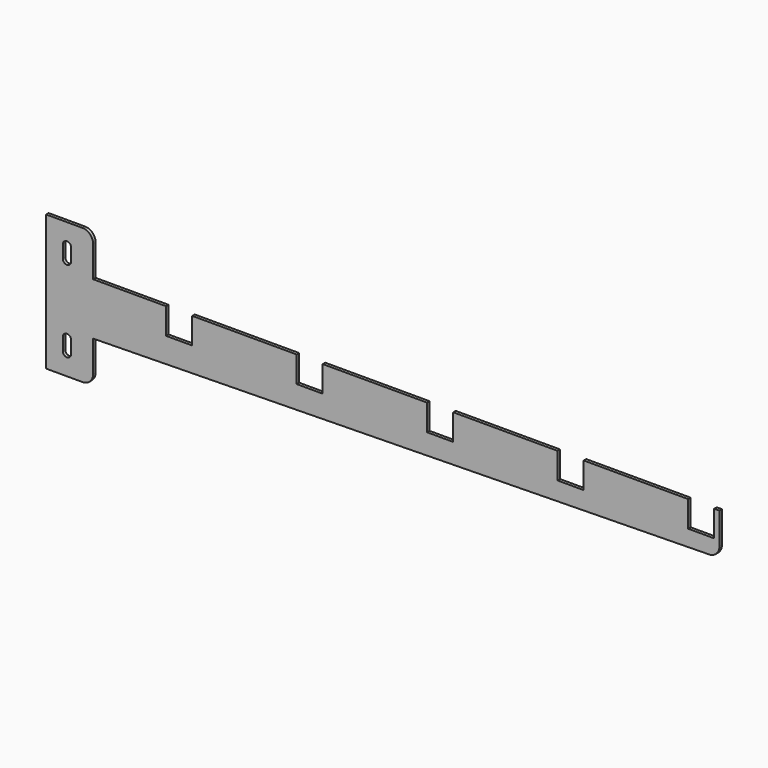
from build123d import *

# Parameters (mm, degrees)
F1_DEPTH = 3


with BuildPart() as f1:
    # F0 (on Front) → F1 (new body)
    with BuildSketch(Plane.XZ):
        with BuildLine():
            Line((-171.156163, -50), (-171.156163, 0))
            Line((-171.156163, 0), (-171.156163, 30))
            ThreePointArc((-171.156163, 30), (-174.085096, 37.071068), (-181.156163, 40))
            Line((-181.156163, 40), (-216.156163, 40))
            Line((-216.156163, 40), (-216.156163, -90))
            Line((-216.156163, -90), (-181.156163, -90))
            ThreePointArc((-181.156163, -90), (-174.085096, -87.071068), (-171.156163, -80))
            Line((-171.156163, -80), (-171.156163, -50))
        make_face()
        with BuildLine():
            Line((-192.156163, -58), (-192.156163, -70))
            ThreePointArc((-192.156163, -70), (-196.156163, -74), (-200.156163, -70))
            Line((-200.156163, -70), (-200.156163, -58))
            ThreePointArc((-200.156163, -58), (-196.156163, -54), (-192.156163, -58))
        make_face(mode=Mode.SUBTRACT)
        with BuildLine():
            Line((-200.156163, 8), (-200.156163, 20))
            ThreePointArc((-200.156163, 20), (-196.156163, 24), (-192.156163, 20))
            Line((-192.156163, 20), (-192.156163, 8))
            ThreePointArc((-192.156163, 8), (-196.156163, 4), (-200.156163, 8))
        make_face(mode=Mode.SUBTRACT)
        with BuildLine():
            Line((-101.156163, 0), (-171.156163, 0))
            Line((-171.156163, 0), (-171.156163, -50))
            Line((-171.156163, -50), (419.01048, -40.163889))
            ThreePointArc((419.01048, -40.163889), (425.973578, -37.177181), (428.843837, -30.165278))
            Line((428.843837, -30.165278), (428.843837, 0))
            Line((428.843837, 0), (423.843837, 0))
            Line((423.843837, 0), (423.843837, -25))
            Line((423.843837, -25), (398.843837, -25))
            Line((398.843837, -25), (398.843837, 0))
            Line((398.843837, 0), (298.843837, 0))
            Line((298.843837, 0), (298.843837, -25))
            Line((298.843837, -25), (273.843837, -25))
            Line((273.843837, -25), (273.843837, 0))
            Line((273.843837, 0), (173.843837, 0))
            Line((173.843837, 0), (173.843837, -25))
            Line((173.843837, -25), (163.126186, -25))
            Line((163.126186, -25), (148.843837, -25))
            Line((148.843837, -25), (148.843837, 0))
            Line((148.843837, 0), (48.843837, 0))
            Line((48.843837, 0), (48.843837, -25))
            Line((48.843837, -25), (23.843837, -25))
            Line((23.843837, -25), (23.843837, 0))
            Line((23.843837, 0), (-76.156163, 0))
            Line((-76.156163, 0), (-76.156163, -25))
            Line((-76.156163, -25), (-101.156163, -25))
            Line((-101.156163, -25), (-101.156163, 0))
        make_face()
    extrude(amount=F1_DEPTH)


solid = f1.part
